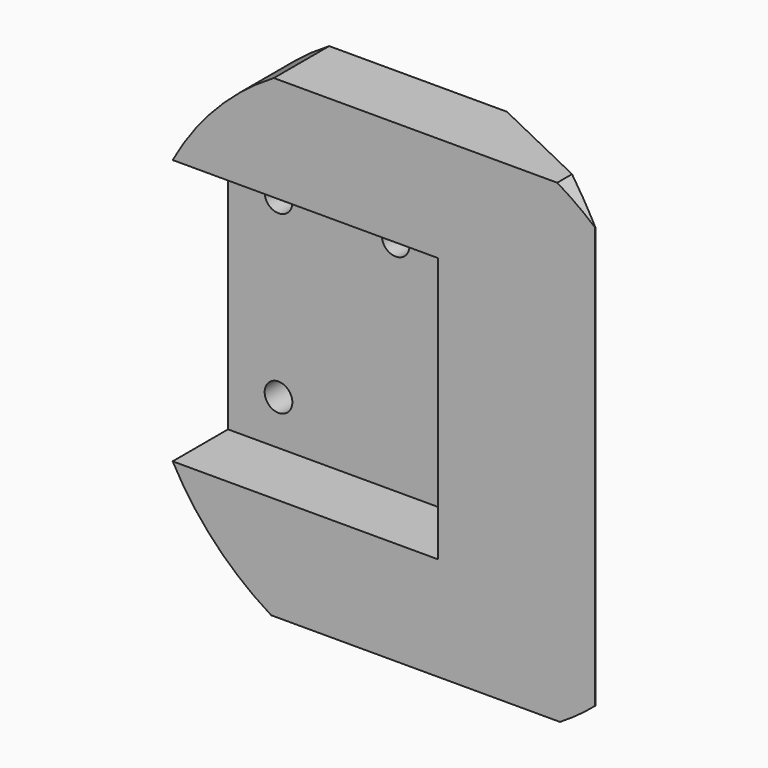
from build123d import *

# Parameters (mm, degrees)
PAD009_DEPTH    = 3
SKETCH023_W     = 15
SKETCH023_H     = 12
SKETCH023_R     = 0.6
PAD010_DEPTH    = 2
POCKET009_DEPTH = 20.546094
FILLET002_R     = 1.9


with BuildPart() as part:
    # Sketch024 → Pad009 (new body)
    with BuildSketch(Plane.XZ):
        with BuildLine():
            Line((-23.5, 5.75), (-12, 5.75))
            Line((-12, 5.75), (-12, -5.75))
            Line((-12, -5.75), (-23.5, -5.75))
            ThreePointArc((-23.5, -5.75), (-21.658628, -8.274119), (-19.228067, -10.237331))
            Line((-19.228067, -10.237331), (-6.706558, -10.237331))
            ThreePointArc((-6.706558, -10.237331), (-5.923041, -9.714846), (-5.182908, -9.132527))
            Line((-5.182908, 9.132527), (-5.182908, -9.132527))
            ThreePointArc((-5.182908, 9.132527), (-5.978311, 9.754684), (-6.823207, 10.307762))
            Line((-19.111419, 10.307762), (-6.823207, 10.307762))
            ThreePointArc((-19.111419, 10.307762), (-21.611511, 8.323331), (-23.5, 5.75))
        make_face()
    extrude(amount=-PAD009_DEPTH)

    # Sketch023 (on Face12 of Pad009) → Pad010 (join)
    with BuildSketch(Plane(origin=(0, 3, 0), x_dir=(1, 0, 0), z_dir=(0, 1, 0))):
        with Locations((-16, 0)):
            Rectangle(SKETCH023_W, SKETCH023_H)
        with Locations((-21.31, -3.81)):
            Circle(SKETCH023_R, mode=Mode.SUBTRACT)
        with Locations((-21.31, 3.81)):
            Circle(SKETCH023_R, mode=Mode.SUBTRACT)
        with Locations((-16.23, -3.81)):
            Circle(SKETCH023_R, mode=Mode.SUBTRACT)
    extrude(amount=PAD010_DEPTH)

    # Sketch026 (on Face2 of Pad010) → Pocket009 (cut, through all)
    with BuildSketch(Plane(origin=(0, 0, 10.307762), x_dir=(-1, 0, 0), z_dir=(0, 0, 1))):
        Polygon((5.151306, 0), (15.6, -5.012868), (5.151306, -5.012868), align=None)
    extrude(amount=-POCKET009_DEPTH, mode=Mode.SUBTRACT)

    # Fillet002
    fillet002_edges = [part.edges().sort_by_distance(p)[0] for p in [
        (-17.382023, 3, 6),
        (-17.382023, 3, -6),
    ]]
    fillet(fillet002_edges, radius=FILLET002_R)


with BuildPart() as part_1:
    # Body003 placement: moved
    add(part.part.moved(Location((0, 0.6, 0))))


solid = part_1.part
